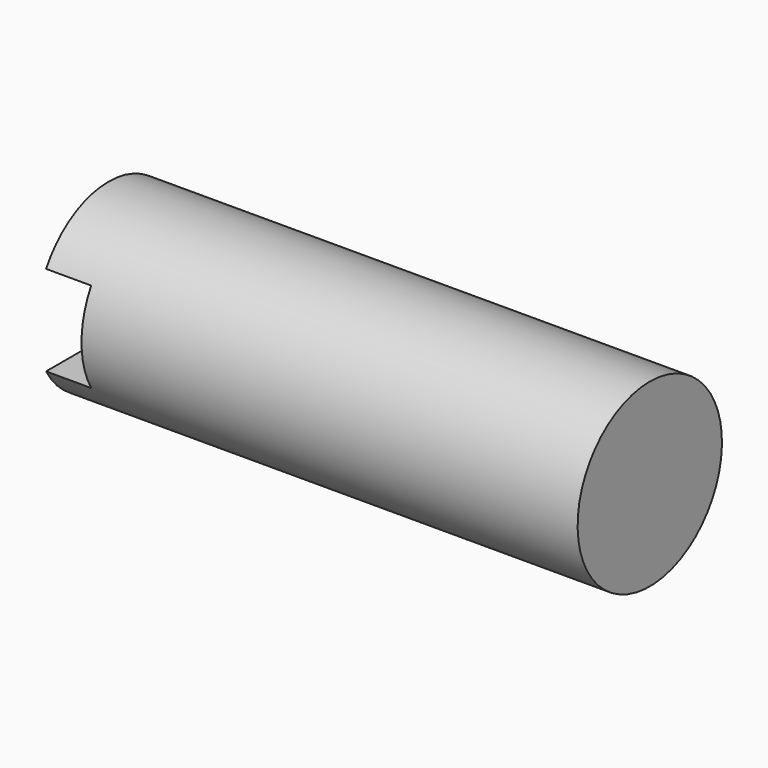
from build123d import *

# Parameters (mm, degrees)
F0_W     = 10
F0_H     = 10
F2_DEPTH = 25


with BuildPart() as f1:
    # F0 (on Front) → F1 (revolve)
    with BuildSketch(Plane.XZ):
        with Locations((-5, 5)):
            Rectangle(F0_W, F0_H)
        Polygon((0, 10), (0, 0), (110, 0), (110, 20), (-10, 20), (-10, 10), align=None)
    revolve(axis=Axis((55, 0, 0), (-1, 0, 0)))

    # F0 (on Front) → F2 (cut, symmetric)
    with BuildSketch(Plane.XZ):
        with Locations((-5, 5)):
            Rectangle(F0_W, F0_H)
        with Locations((-5, -5)):
            Rectangle(F0_W, F0_H)
    extrude(amount=F2_DEPTH, both=True, mode=Mode.SUBTRACT)


solid = f1.part
